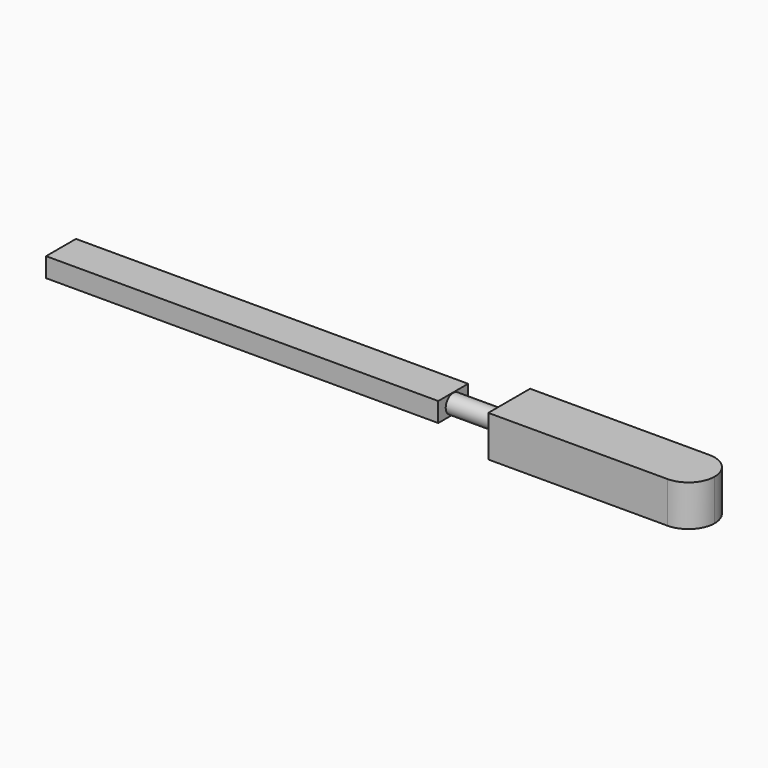
from build123d import *

# Parameters (mm, degrees)
F1_DEPTH = 5.5
F2_R     = 2.5
F3_DEPTH = 15
F4_W     = 10
F4_H     = 5.2
F5_DEPTH = 105


with BuildPart() as f1:
    # F0 (on Top) → F1 (new body, symmetric)
    with BuildSketch(Plane.XY):
        with BuildLine():
            Line((0, 7), (0, 0))
            Line((0, 0), (0, -7))
            Line((0, -7), (48, -7))
            ThreePointArc((48, -7), (52.949747, -4.949747), (55, 0))
            ThreePointArc((55, 0), (52.949747, 4.949747), (48, 7))
            Line((48, 7), (0, 7))
        make_face()
    extrude(amount=F1_DEPTH, both=True)

    # F2 (on face) → F3 (join)
    with BuildSketch(Plane(origin=(0, 0, 0), x_dir=(0, -1, 0), z_dir=(-1, 0, 0))):
        Circle(F2_R)
    extrude(amount=F3_DEPTH)

    # F4 (on face) → F5 (join)
    with BuildSketch(Plane(origin=(-15, 0, 0), x_dir=(0, -1, 0), z_dir=(-1, 0, 0))):
        Rectangle(F4_W, F4_H)
    extrude(amount=F5_DEPTH)


solid = f1.part
